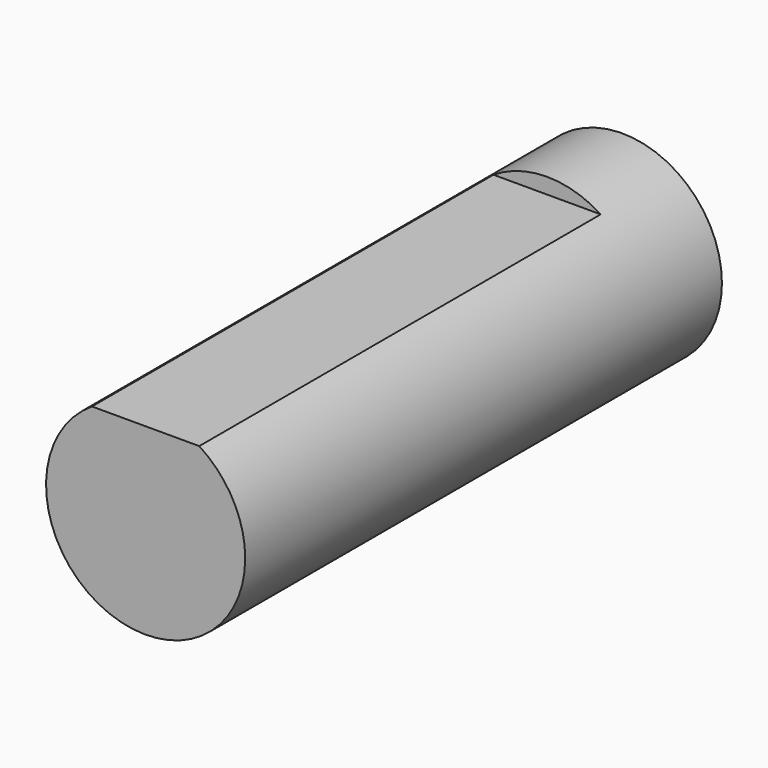
from build123d import *

# Parameters (mm, degrees)
F0_R     = 3.175
F1_DEPTH = 19
F3_DEPTH = 12.5


with BuildPart() as f1:
    # F0 (on Front) → F1 (new body)
    with BuildSketch(Plane.XZ):
        Circle(F0_R)
    extrude(amount=F1_DEPTH)

    # F2 (on Right) → F3 (cut, symmetric)
    with BuildSketch(Plane.YZ):
        Polygon((-3, 7.675), (-23, 2.675), (-3, 2.675), align=None)
    extrude(amount=F3_DEPTH, both=True, mode=Mode.SUBTRACT)


solid = f1.part
